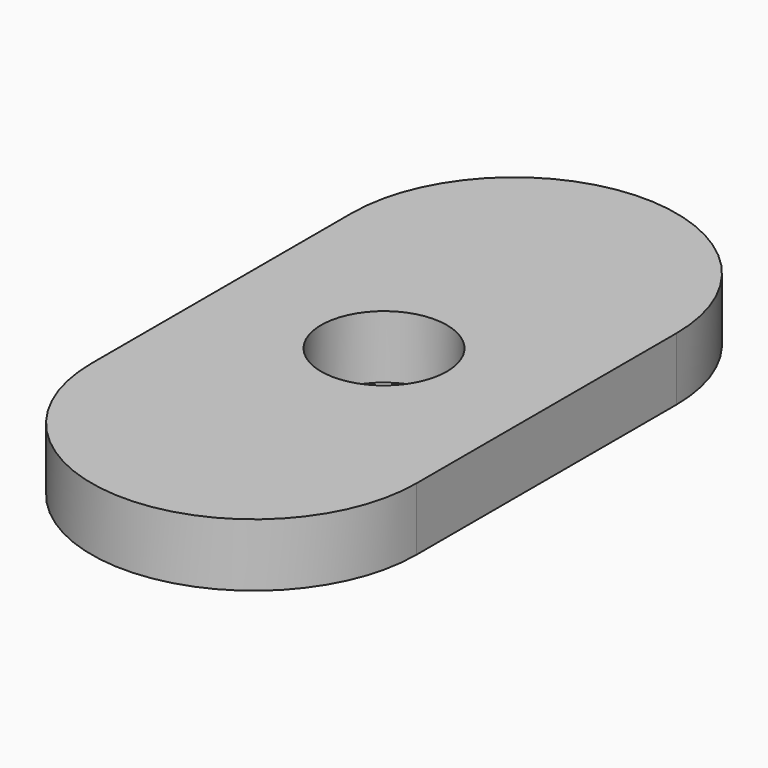
from build123d import *

# Parameters (mm, degrees)
F0_R     = 3
F1_DEPTH = 1.5


with BuildPart() as f1:
    # F0 (on Top) → F1 (new body, symmetric)
    with BuildSketch(Plane.XY):
        with BuildLine():
            ThreePointArc((-7.75, -7.75), (0, -15.5), (7.75, -7.75))
            Line((7.75, -7.75), (7.75, 7.75))
            ThreePointArc((7.75, 7.75), (0, 15.5), (-7.75, 7.75))
            Line((-7.75, 7.75), (-7.75, -7.75))
        make_face()
        Circle(F0_R, mode=Mode.SUBTRACT)
    extrude(amount=F1_DEPTH, both=True)


solid = f1.part
